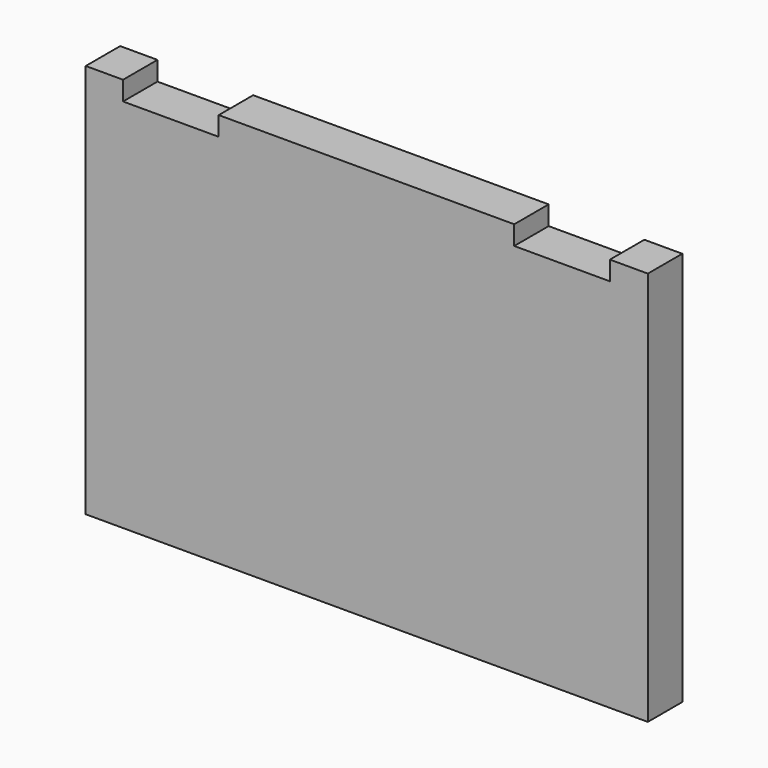
from build123d import *

# Parameters (mm, degrees)
F0_W     = 235
F0_H     = 165
F1_DEPTH = 18
F2_W     = 40
F2_H     = 18
F3_DEPTH = 8
F4_W     = 40
F4_H     = 18
F5_DEPTH = 8


with BuildPart() as f1:
    # F0 (on Front) → F1 (new body)
    with BuildSketch(Plane.XZ):
        with Locations((4.946282, 11.687499)):
            Rectangle(F0_W, F0_H)
    extrude(amount=F1_DEPTH)

    # F2 (on face) → F3 (cut)
    with BuildSketch(Plane.XY.offset(94.187499)):
        with Locations((86.589683, -9)):
            Rectangle(F2_W, F2_H)
    extrude(amount=-F3_DEPTH, mode=Mode.SUBTRACT)

    # F4 (on face) → F5 (cut)
    with BuildSketch(Plane.XY.offset(94.187499)):
        with Locations((-76.956588, -9)):
            Rectangle(F4_W, F4_H)
    extrude(amount=-F5_DEPTH, mode=Mode.SUBTRACT)


solid = f1.part
